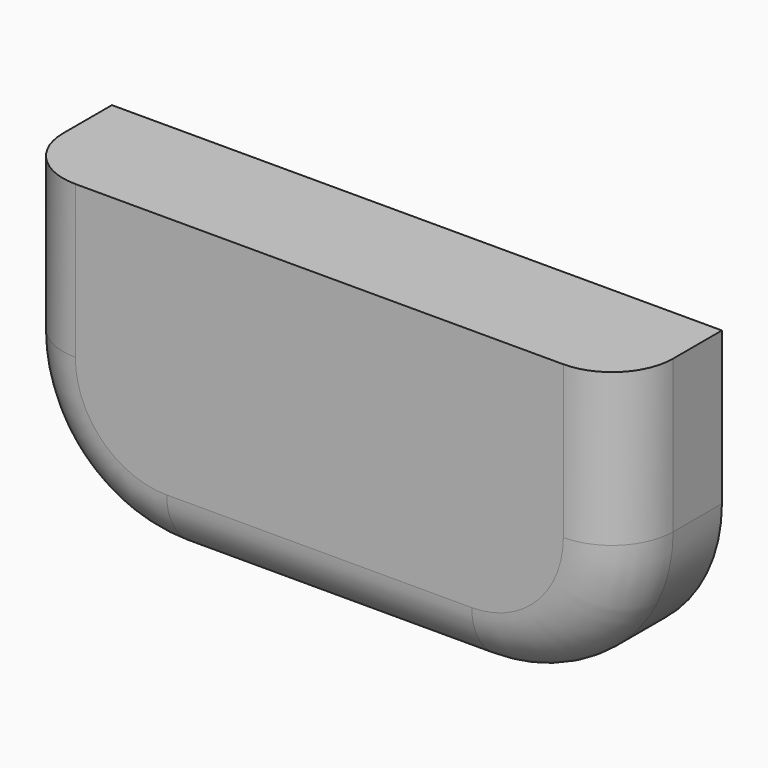
from build123d import *

# Parameters (mm, degrees)
F1_DEPTH = 20
F2_R     = 10


with BuildPart() as f1:
    # F0 (on Front) → F1 (new body)
    with BuildSketch(Plane.XZ):
        with BuildLine():
            Line((26.837501, 80.308254), (-73.162499, 80.308254))
            Line((-73.162499, 80.308254), (-73.162499, 55.308254))
            ThreePointArc((-73.162499, 55.308254), (-65.840168, 37.630585), (-48.162499, 30.308254))
            Line((-48.162499, 30.308254), (1.837501, 30.308254))
            ThreePointArc((1.837501, 30.308254), (19.515171, 37.630585), (26.837501, 55.308254))
            Line((26.837501, 55.308254), (26.837501, 80.308254))
        make_face()
    extrude(amount=F1_DEPTH)

    # F2
    f2_edges = [f1.edges().sort_by_distance(p)[0] for p in [
        (-73.162499, -20, 67.808254),
    ]]
    fillet(f2_edges, radius=F2_R)


solid = f1.part
